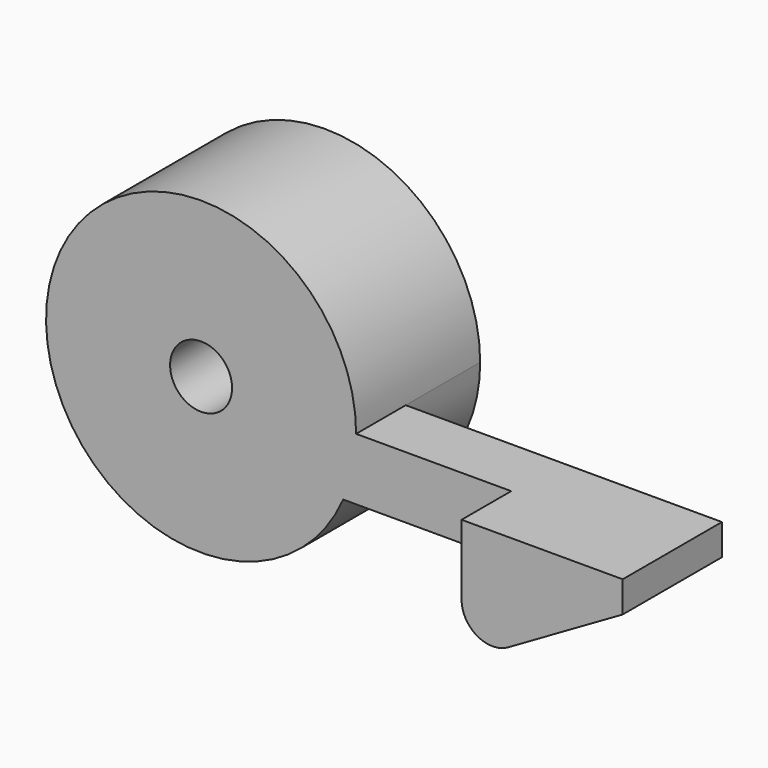
from build123d import *

# Parameters (mm, degrees)
F1_DEPTH = 5
F2_D     = 2
F3_DEPTH = 2
F4_DEPTH = 2
F5_R     = 1


with BuildPart() as f1:
    # F0 (on Front) → F1 (new body)
    with BuildSketch(Plane.XZ):
        with BuildLine():
            ThreePointArc((4.582576, -2), (4.894532, -1.021548), (5, 0))
            ThreePointArc((5, 0), (-4.894532, 1.021548), (4.582576, -2))
        make_face()
    extrude(amount=-F1_DEPTH)

    # F2 (through all)
    with Locations(Plane.XZ):
        with Locations((0, 0)):
            Hole(F2_D / 2)

    # F0 (on Front) → F3 (join)
    with BuildSketch(Plane.XZ):
        with BuildLine():
            Line((10, 0), (5, 0))
            ThreePointArc((5, 0), (4.894532, -1.021548), (4.582576, -2))
            Line((4.582576, -2), (10, -2))
            Line((10, -2), (10, 0))
        make_face()
    extrude(amount=-F3_DEPTH)

    # F0 (on Front) → F4 (join, symmetric)
    with BuildSketch(Plane.XZ):
        Polygon((15.196152, 0), (10, 0), (10, -2), (10, -4), (15.196152, -1), align=None)
    extrude(amount=F4_DEPTH, both=True)

    # F5
    f5_edges = [f1.edges().sort_by_distance(p)[0] for p in [
        (10, 0, -4),
    ]]
    fillet(f5_edges, radius=F5_R)


solid = f1.part
